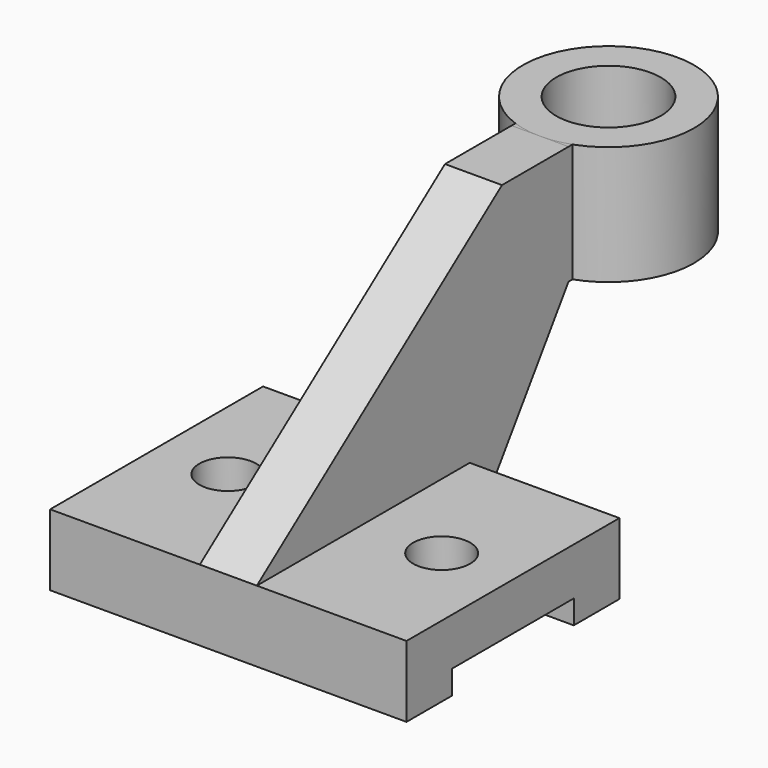
from build123d import *

# Parameters (mm, degrees)
F1_DEPTH = 37.5
F2_R     = 6
F3_DEPTH = 25
F5_DEPTH = 6
F7_R     = 18
F7_R_2   = 11
F8_DEPTH = 25


with BuildPart() as f1:
    # F0 (on Right) → F1 (new body, symmetric)
    with BuildSketch(Plane.YZ):
        Polygon((28, 0), (-28, 0), (-28, -15), (-16, -15), (-16, -10), (16, -10), (16, -15), (28, -15), align=None)
    extrude(amount=F1_DEPTH, both=True)

    # F2 (on face) → F3 (cut)
    with BuildSketch(Plane.XY):
        with Locations((-22.5, 0)):
            Circle(F2_R)
        with Locations((22.5, 0)):
            Circle(F2_R)
    extrude(amount=-F3_DEPTH, mode=Mode.SUBTRACT)

    # F4 (on Right) → F5 (join, symmetric)
    with BuildSketch(Plane.YZ):
        Polygon((54, 48), (36.491035, 48), (-28, 0), (28, 0), (28, -15), (54, 23), (59, 23), (59, 47.966335), align=None)
    extrude(amount=F5_DEPTH, both=True)

    # F7 (on offset) → F8 (join)
    with BuildSketch(Plane.XY.offset(48)):
        with Locations((0, 72)):
            Circle(F7_R)
        with Locations((0, 72)):
            Circle(F7_R_2, mode=Mode.SUBTRACT)
    extrude(amount=-F8_DEPTH)


solid = f1.part
